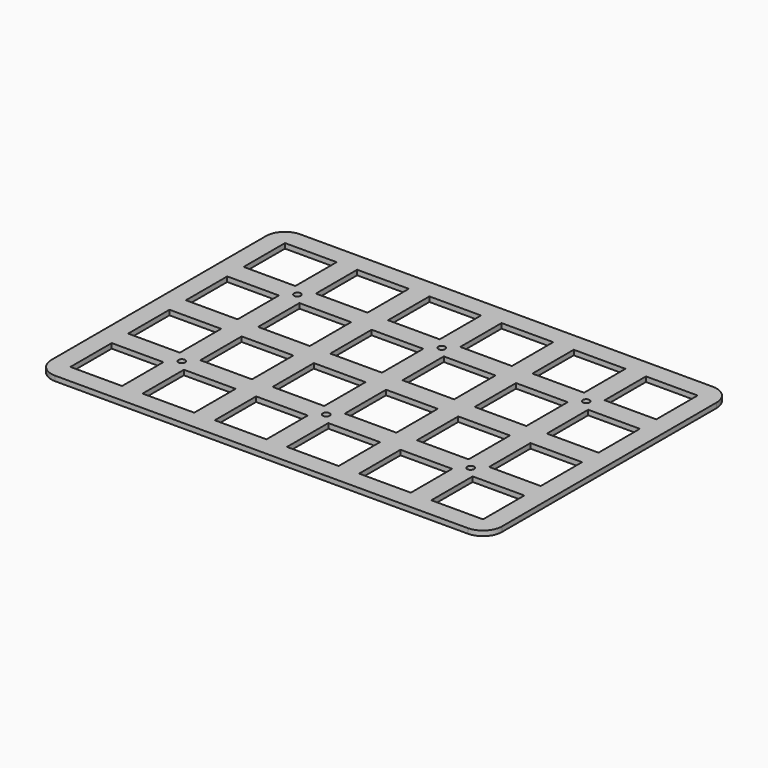
from build123d import *

# Parameters (mm, degrees)
SKETCH_R  = 0.9
SKETCH_W  = 13.6
SKETCH_H  = 13.6
PAD_DEPTH = 1.3


with BuildPart() as part:
    # Sketch → Pad (new body)
    with BuildSketch(Plane.XY):
        with BuildLine():
            ThreePointArc((0, 18.6), (-3.535534, 17.135534), (-5, 13.6))
            Line((-5, 13.6), (-5, -57))
            ThreePointArc((-5, -57), (-3.535534, -60.535534), (0, -62))
            Line((0, -62), (108.6, -62))
            ThreePointArc((108.6, -62), (112.135534, -60.535534), (113.6, -57))
            Line((113.6, -57), (113.6, 13.6))
            ThreePointArc((113.6, 13.6), (112.135534, 17.135534), (108.6, 18.6))
            Line((108.6, 18.6), (0, 18.6))
        make_face()
        with Locations((92.3, -40.7)):
            Circle(SKETCH_R, mode=Mode.SUBTRACT)
        with Locations((54.3, -40.7)):
            Circle(SKETCH_R, mode=Mode.SUBTRACT)
        with Locations((16.3, -40.7)):
            Circle(SKETCH_R, mode=Mode.SUBTRACT)
        with Locations((16.3, -2.7)):
            Circle(SKETCH_R, mode=Mode.SUBTRACT)
        with Locations((54.3, -2.7)):
            Circle(SKETCH_R, mode=Mode.SUBTRACT)
        with Locations((92.3, -2.7)):
            Circle(SKETCH_R, mode=Mode.SUBTRACT)
        with Locations((6.8, 6.8)):
            Rectangle(SKETCH_W, SKETCH_H, mode=Mode.SUBTRACT)
        with Locations((25.8, 6.8)):
            Rectangle(SKETCH_W, SKETCH_H, mode=Mode.SUBTRACT)
        with Locations((44.8, 6.8)):
            Rectangle(SKETCH_W, SKETCH_H, mode=Mode.SUBTRACT)
        with Locations((63.8, 6.8)):
            Rectangle(SKETCH_W, SKETCH_H, mode=Mode.SUBTRACT)
        with Locations((82.8, 6.8)):
            Rectangle(SKETCH_W, SKETCH_H, mode=Mode.SUBTRACT)
        with Locations((101.8, 6.8)):
            Rectangle(SKETCH_W, SKETCH_H, mode=Mode.SUBTRACT)
        with Locations((6.8, -12.2)):
            Rectangle(SKETCH_W, SKETCH_H, mode=Mode.SUBTRACT)
        with Locations((25.8, -12.2)):
            Rectangle(SKETCH_W, SKETCH_H, mode=Mode.SUBTRACT)
        with Locations((44.8, -12.2)):
            Rectangle(SKETCH_W, SKETCH_H, mode=Mode.SUBTRACT)
        with Locations((63.8, -12.2)):
            Rectangle(SKETCH_W, SKETCH_H, mode=Mode.SUBTRACT)
        with Locations((82.8, -12.2)):
            Rectangle(SKETCH_W, SKETCH_H, mode=Mode.SUBTRACT)
        with Locations((101.8, -12.2)):
            Rectangle(SKETCH_W, SKETCH_H, mode=Mode.SUBTRACT)
        with Locations((6.8, -31.2)):
            Rectangle(SKETCH_W, SKETCH_H, mode=Mode.SUBTRACT)
        with Locations((25.8, -31.2)):
            Rectangle(SKETCH_W, SKETCH_H, mode=Mode.SUBTRACT)
        with Locations((44.8, -31.2)):
            Rectangle(SKETCH_W, SKETCH_H, mode=Mode.SUBTRACT)
        with Locations((63.8, -31.2)):
            Rectangle(SKETCH_W, SKETCH_H, mode=Mode.SUBTRACT)
        with Locations((82.8, -31.2)):
            Rectangle(SKETCH_W, SKETCH_H, mode=Mode.SUBTRACT)
        with Locations((101.8, -31.2)):
            Rectangle(SKETCH_W, SKETCH_H, mode=Mode.SUBTRACT)
        with Locations((6.8, -50.2)):
            Rectangle(SKETCH_W, SKETCH_H, mode=Mode.SUBTRACT)
        with Locations((25.8, -50.2)):
            Rectangle(SKETCH_W, SKETCH_H, mode=Mode.SUBTRACT)
        with Locations((44.8, -50.2)):
            Rectangle(SKETCH_W, SKETCH_H, mode=Mode.SUBTRACT)
        with Locations((63.8, -50.2)):
            Rectangle(SKETCH_W, SKETCH_H, mode=Mode.SUBTRACT)
        with Locations((82.8, -50.2)):
            Rectangle(SKETCH_W, SKETCH_H, mode=Mode.SUBTRACT)
        with Locations((101.8, -50.2)):
            Rectangle(SKETCH_W, SKETCH_H, mode=Mode.SUBTRACT)
    extrude(amount=PAD_DEPTH)


solid = part.part
